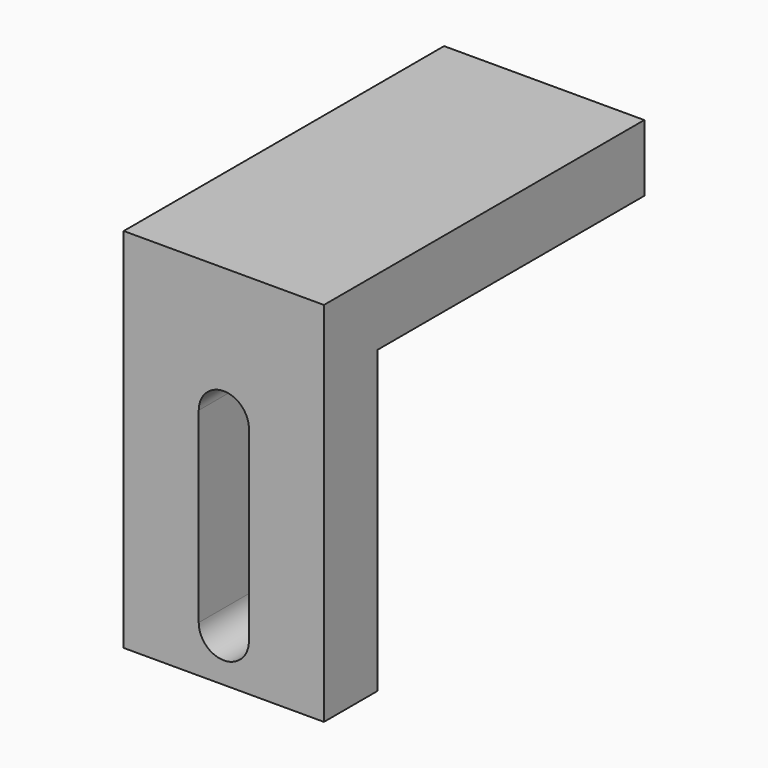
from build123d import *

# Parameters (mm, degrees)
F0_W     = 19.05
F0_H     = 34.925
F1_DEPTH = 6.35
F2_W     = 19.05
F2_H     = 6.35
F3_DEPTH = 31.75


with BuildPart() as f1:
    # F0 (on Front) → F1 (new body)
    with BuildSketch(Plane.XZ):
        with Locations((9.525, -17.4625)):
            Rectangle(F0_W, F0_H)
        with BuildLine():
            ThreePointArc((7.1374, -12.7), (9.525, -10.3124), (11.9126, -12.7))
            Line((11.9126, -12.7), (11.9126, -30.48))
            ThreePointArc((11.9126, -30.48), (9.525, -32.8676), (7.1374, -30.48))
            Line((7.1374, -30.48), (7.1374, -12.7))
        make_face(mode=Mode.SUBTRACT)
    extrude(amount=F1_DEPTH)

    # F2 (on face) → F3 (join)
    with BuildSketch(Plane(origin=(0, 0, 0), x_dir=(-1, 0, 0), z_dir=(0, 1, 0))):
        with Locations((-9.525, -3.175)):
            Rectangle(F2_W, F2_H)
    extrude(amount=F3_DEPTH)


solid = f1.part
